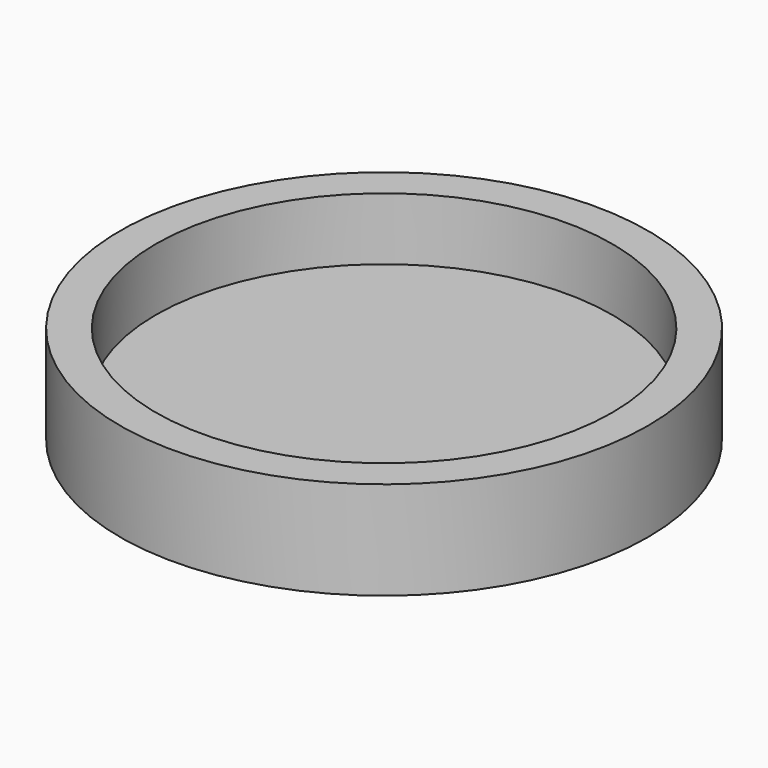
from build123d import *

# Parameters (mm, degrees)
F0_R     = 14.8
F0_R_2   = 12.8
F1_DEPTH = 3.5
F2_R     = 14.8
F3_DEPTH = 2


with BuildPart() as f1:
    # F0 (on Top) → F1 (new body)
    with BuildSketch(Plane.XY):
        Circle(F0_R)
        Circle(F0_R_2, mode=Mode.SUBTRACT)
    extrude(amount=F1_DEPTH)

    # F2 (on face) → F3 (join)
    with BuildSketch(Plane(origin=(0, 0, 0), x_dir=(1, 0, 0), z_dir=(0, 0, -1))):
        Circle(F2_R)
    extrude(amount=F3_DEPTH)


solid = f1.part
